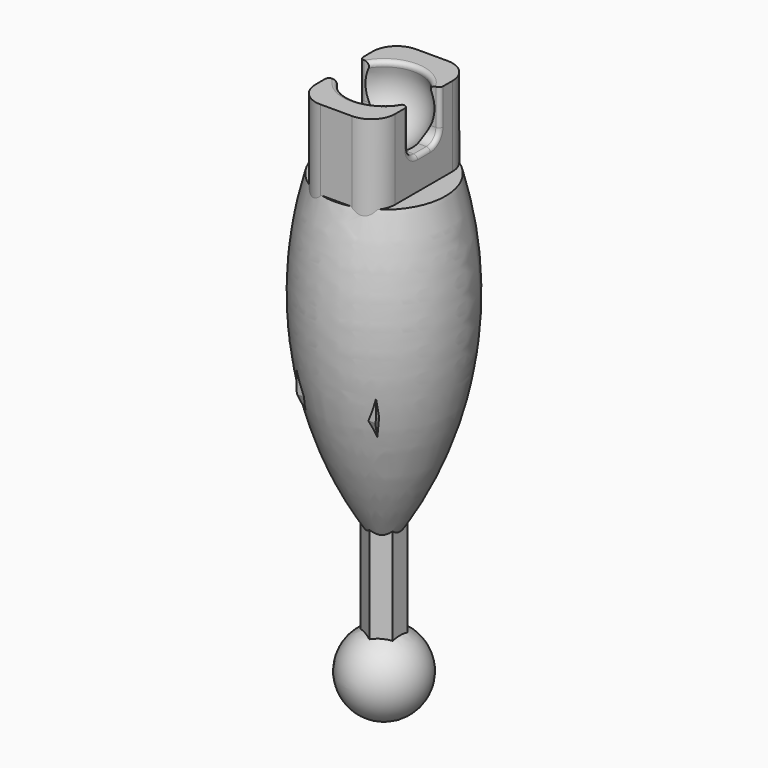
from build123d import *

# Parameters (mm, degrees)
F0_W      = 15
F0_H      = 45
F1_DEPTH  = 5
F3_DEPTH  = 12.5
F5_DEPTH  = 25
F7_DEPTH  = 20
F11_DEPTH = 10.001
F14_R     = 0.5
F17_R     = 3


with BuildPart() as f1:
    # F0 (on Right) → F1 (new body, symmetric)
    with BuildSketch(Plane.YZ):
        with Locations((0, 37.7486599073)):
            Rectangle(F0_W, F0_H)
    extrude(amount=F1_DEPTH, both=True)

    # F2 (on face) → F3 (cut, symmetric)
    with BuildSketch(Plane.YZ.offset(5)):
        Polygon((-7.5, 27.2486599073), (-7.5, 15.2486599073), (-2.5, 15.2486599073), align=None)
        Polygon((2.5, 15.2486599073), (7.5, 15.2486599073), (7.5, 27.2486599073), align=None)
    extrude(amount=F3_DEPTH, both=True, mode=Mode.SUBTRACT)

    # F4 (on Front) → F5 (cut, symmetric)
    with BuildSketch(Plane.XZ):
        Polygon((5, 15.2486599073), (5, 27.7486599073), (2.5, 15.2486599073), align=None)
        Polygon((-2.5, 15.2486599073), (-5, 27.7486599073), (-5, 15.2486599073), align=None)
    extrude(amount=F5_DEPTH, both=True, mode=Mode.SUBTRACT)

    # F6 (on face) → F7 (join)
    with BuildSketch(Plane(origin=(0, 0, 15.2486599073), x_dir=(1, 0, 0), z_dir=(0, 0, -1))):
        Polygon((2, -1.1547005384), (2, 1.1547005384), (0, 2.3094010768), (-2, 1.1547005384), (-2, -1.1547005384), (0, -2.3094010768), align=None)
    extrude(amount=F7_DEPTH)

    # F8 (on face) → F9 (revolve)
    with BuildSketch(Plane(origin=(0, 0, -4.7513400927), x_dir=(1, 0, 0), z_dir=(0, 0, -1))):
        with BuildLine():
            Line((0, 2.3094010768), (0, 5))
            ThreePointArc((0, 5), (-5, 0), (0, -5))
            Line((0, -5), (0, -2.3094010768))
            Line((0, -2.3094010768), (-2, -1.1547005384))
            Line((-2, -1.1547005384), (-2, 1.1547005384))
            Line((-2, 1.1547005384), (0, 2.3094010768))
        make_face()
        Polygon((0, -2.3094010768), (0, 2.3094010768), (-2, 1.1547005384), (-2, -1.1547005384), align=None)
    revolve(axis=Axis((0, -0.0408322085, -4.7513400927), (0, 1, 0)))

    # F10 (on face) → F11 (cut, through all)
    with BuildSketch(Plane.YZ.offset(5)):
        with BuildLine():
            Line((2.5, 60.2486599073), (-2.5, 60.2486599073))
            Line((-2.5, 60.2486599073), (-2.5, 55.7486599073))
            ThreePointArc((-2.5, 55.7486599073), (-2.0606601718, 54.6879997356), (-1, 54.2486599073))
            Line((-1, 54.2486599073), (1, 54.2486599073))
            ThreePointArc((1, 54.2486599073), (2.0606601718, 54.6879997356), (2.5, 55.7486599073))
            Line((2.5, 55.7486599073), (2.5, 60.2486599073))
        make_face()
    extrude(amount=-F11_DEPTH, mode=Mode.SUBTRACT)

    # F12 (on Right) → F13 (revolve, cut)
    with BuildSketch(Plane.YZ):
        with BuildLine():
            Line((0, 52.7486599073), (0, 62.7486599073))
            ThreePointArc((0, 62.7486599073), (-5, 57.7486599073), (0, 52.7486599073))
        make_face()
    revolve(axis=Axis((0, 0, 47.2876932472), (0, 0, -1)), mode=Mode.SUBTRACT)

    # F14
    f14_edges = [f1.edges().sort_by_distance(p)[0] for p in [
        (5, -2.5, 57.99866),
        (0, 4.330127, 60.24866),
        (-1.990563, -3.845473, 60.24866),
        (1.990563, -3.845473, 60.24866),
        (-5, -2.06066, 54.688),
    ]]
    fillet(f14_edges, radius=F14_R)

    # F15 (on Right) → F16 (revolve)
    with BuildSketch(Plane.YZ):
        with BuildLine():
            Line((0, 50.230383873), (0, 8.4081376866))
            ThreePointArc((0, 8.4081376866), (8.7475679479, 28.4169237193), (7.7255994382, 50.230383873))
            Line((7.7255994382, 50.230383873), (0, 50.230383873))
        make_face()
    revolve(axis=Axis((0, 0, 32.9841864295), (0, 0, -1)))

    # F17 (call 1 of 4: OpenCascade refuses the feature's edges together)
    f17_edges = [f1.edges().sort_by_distance(p)[0] for p in [
        (5, -7.5, 52.25663),
    ]]
    fillet(f17_edges, radius=F17_R)

    # F17#2 (call 2 of 4)
    f17_2_edges = [f1.edges().sort_by_distance(p)[0] for p in [
        (-5, -7.5, 52.25663),
    ]]
    fillet(f17_2_edges, radius=F17_R)

    # F17#3 (call 3 of 4)
    f17_3_edges = [f1.edges().sort_by_distance(p)[0] for p in [
        (5, 7.5, 52.25663),
    ]]
    fillet(f17_3_edges, radius=F17_R)

    # F17#4 (call 4 of 4)
    f17_4_edges = [f1.edges().sort_by_distance(p)[0] for p in [
        (-5, 7.5, 52.25663),
    ]]
    fillet(f17_4_edges, radius=F17_R)


solid = f1.part
